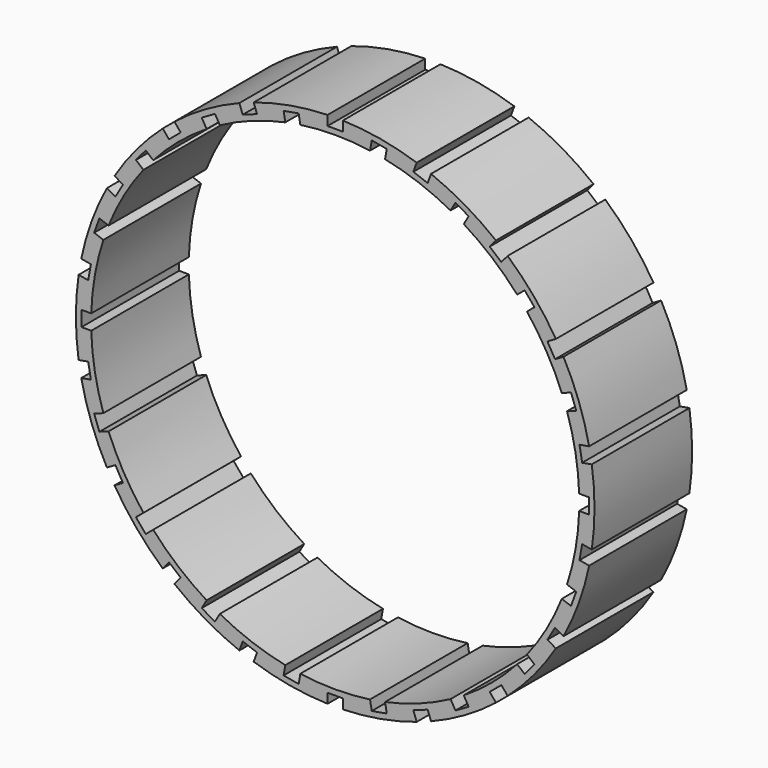
from build123d import *

# Parameters (mm, degrees)
F1_DEPTH = 25.4


with BuildPart() as f1:
    # F0 (on Front) → F1 (new body)
    with BuildSketch(Plane.XZ):
        with BuildLine():
            Line((-1.5875, 51.919649), (-1.5875, 53.951649))
            ThreePointArc((-1.5875, 53.951649), (-9.37266, 53.154998), (-16.960789, 51.240924))
            Line((-16.960789, 51.240924), (-16.265804, 49.331468))
            Line((-16.265804, 49.331468), (-19.249328, 48.245554))
            Line((-19.249328, 48.245554), (-19.944313, 50.15501))
            ThreePointArc((-19.944313, 50.15501), (-26.9875, 46.743721), (-33.463356, 42.349787))
            Line((-33.463356, 42.349787), (-32.157212, 40.793184))
            Line((-32.157212, 40.793184), (-34.589403, 38.752334))
            Line((-34.589403, 38.752334), (-35.895547, 40.308936))
            ThreePointArc((-35.895547, 40.308936), (-41.347249, 34.694461), (-45.929749, 28.35064))
            Line((-45.929749, 28.35064), (-44.169985, 27.33464))
            Line((-44.169985, 27.33464), (-45.757485, 24.585009))
            Line((-45.757485, 24.585009), (-47.517249, 25.601009))
            ThreePointArc((-47.517249, 25.601009), (-50.719909, 18.460537), (-52.856336, 10.931988))
            Line((-52.856336, 10.931988), (-50.855207, 10.579135))
            Line((-50.855207, 10.579135), (-51.40654, 7.45237))
            Line((-51.40654, 7.45237), (-53.407669, 7.805223))
            ThreePointArc((-53.407669, 7.805223), (-53.975, 0), (-53.407669, -7.805223))
            Line((-53.407669, -7.805223), (-51.40654, -7.45237))
            Line((-51.40654, -7.45237), (-50.855207, -10.579135))
            Line((-50.855207, -10.579135), (-52.856336, -10.931988))
            ThreePointArc((-52.856336, -10.931988), (-50.719909, -18.460537), (-47.517249, -25.601009))
            Line((-47.517249, -25.601009), (-45.757485, -24.585009))
            Line((-45.757485, -24.585009), (-44.169985, -27.33464))
            Line((-44.169985, -27.33464), (-45.929749, -28.35064))
            ThreePointArc((-45.929749, -28.35064), (-41.347249, -34.694461), (-35.895547, -40.308936))
            Line((-35.895547, -40.308936), (-34.589403, -38.752334))
            Line((-34.589403, -38.752334), (-32.157212, -40.793184))
            Line((-32.157212, -40.793184), (-33.463356, -42.349787))
            ThreePointArc((-33.463356, -42.349787), (-26.9875, -46.743721), (-19.944313, -50.15501))
            Line((-19.944313, -50.15501), (-19.249328, -48.245554))
            Line((-19.249328, -48.245554), (-16.265804, -49.331468))
            Line((-16.265804, -49.331468), (-16.960789, -51.240924))
            ThreePointArc((-16.960789, -51.240924), (-9.37266, -53.154998), (-1.5875, -53.951649))
            Line((-1.5875, -53.951649), (-1.5875, -51.919649))
            Line((-1.5875, -51.919649), (1.5875, -51.919649))
            Line((1.5875, -51.919649), (1.5875, -53.951649))
            ThreePointArc((1.5875, -53.951649), (9.37266, -53.154998), (16.960789, -51.240924))
            Line((16.960789, -51.240924), (16.265804, -49.331468))
            Line((16.265804, -49.331468), (19.249328, -48.245554))
            Line((19.249328, -48.245554), (19.944313, -50.15501))
            ThreePointArc((19.944313, -50.15501), (26.9875, -46.743721), (33.463356, -42.349787))
            Line((33.463356, -42.349787), (32.157212, -40.793184))
            Line((32.157212, -40.793184), (34.589403, -38.752334))
            Line((34.589403, -38.752334), (35.895547, -40.308936))
            ThreePointArc((35.895547, -40.308936), (41.347249, -34.694461), (45.929749, -28.35064))
            Line((45.929749, -28.35064), (44.169985, -27.33464))
            Line((44.169985, -27.33464), (45.757485, -24.585009))
            Line((45.757485, -24.585009), (47.517249, -25.601009))
            ThreePointArc((47.517249, -25.601009), (50.719909, -18.460537), (52.856336, -10.931988))
            Line((52.856336, -10.931988), (50.855207, -10.579135))
            Line((50.855207, -10.579135), (51.40654, -7.45237))
            Line((51.40654, -7.45237), (53.407669, -7.805223))
            ThreePointArc((53.407669, -7.805223), (53.975, 0), (53.407669, 7.805223))
            Line((53.407669, 7.805223), (51.40654, 7.45237))
            Line((51.40654, 7.45237), (50.855207, 10.579135))
            Line((50.855207, 10.579135), (52.856336, 10.931988))
            ThreePointArc((52.856336, 10.931988), (50.719909, 18.460537), (47.517249, 25.601009))
            Line((47.517249, 25.601009), (45.757485, 24.585009))
            Line((45.757485, 24.585009), (44.169985, 27.33464))
            Line((44.169985, 27.33464), (45.929749, 28.35064))
            ThreePointArc((45.929749, 28.35064), (41.347249, 34.694461), (35.895547, 40.308936))
            Line((35.895547, 40.308936), (34.589403, 38.752334))
            Line((34.589403, 38.752334), (32.157212, 40.793184))
            Line((32.157212, 40.793184), (33.463356, 42.349787))
            ThreePointArc((33.463356, 42.349787), (26.9875, 46.743721), (19.944313, 50.15501))
            Line((19.944313, 50.15501), (19.249328, 48.245554))
            Line((19.249328, 48.245554), (16.265804, 49.331468))
            Line((16.265804, 49.331468), (16.960789, 51.240924))
            ThreePointArc((16.960789, 51.240924), (9.37266, 53.154998), (1.5875, 53.951649))
            Line((1.5875, 53.951649), (1.5875, 51.919649))
            Line((1.5875, 51.919649), (-1.5875, 51.919649))
        make_face()
        with BuildLine():
            ThreePointArc((-48.256028, -15.874375), (-50.028234, -8.821327), (-50.775189, -1.5875))
            Line((-50.775189, -1.5875), (-52.807189, -1.5875))
            Line((-52.807189, -1.5875), (-52.807189, 1.5875))
            Line((-52.807189, 1.5875), (-50.775189, 1.5875))
            ThreePointArc((-50.775189, 1.5875), (-50.028234, 8.821327), (-48.256028, 15.874375))
            Line((-48.256028, 15.874375), (-50.165483, 16.56936))
            Line((-50.165483, 16.56936), (-49.079569, 19.552884))
            Line((-49.079569, 19.552884), (-47.170114, 18.8579))
            ThreePointArc((-47.170114, 18.8579), (-43.994091, 25.4), (-39.916477, 31.421567))
            Line((-39.916477, 31.421567), (-41.473079, 32.727711))
            Line((-41.473079, 32.727711), (-39.432229, 35.159903))
            Line((-39.432229, 35.159903), (-37.875626, 33.853758))
            ThreePointArc((-37.875626, 33.853758), (-32.653611, 38.915058), (-26.76241, 43.178854))
            Line((-26.76241, 43.178854), (-27.77841, 44.938617))
            Line((-27.77841, 44.938617), (-25.028779, 46.526117))
            Line((-25.028779, 46.526117), (-24.012779, 44.766354))
            ThreePointArc((-24.012779, 44.766354), (-17.374623, 47.736385), (-10.380401, 49.728134))
            Line((-10.380401, 49.728134), (-10.733254, 51.729263))
            Line((-10.733254, 51.729263), (-7.60649, 52.280596))
            Line((-7.60649, 52.280596), (-7.253637, 50.279467))
            ThreePointArc((-7.253637, 50.279467), (0, 50.8), (7.253637, 50.279467))
            Line((7.253637, 50.279467), (7.60649, 52.280596))
            Line((7.60649, 52.280596), (10.733254, 51.729263))
            Line((10.733254, 51.729263), (10.380401, 49.728134))
            ThreePointArc((10.380401, 49.728134), (17.374623, 47.736385), (24.012779, 44.766354))
            Line((24.012779, 44.766354), (25.028779, 46.526117))
            Line((25.028779, 46.526117), (27.77841, 44.938617))
            Line((27.77841, 44.938617), (26.76241, 43.178854))
            ThreePointArc((26.76241, 43.178854), (32.653611, 38.915058), (37.875626, 33.853758))
            Line((37.875626, 33.853758), (39.432229, 35.159903))
            Line((39.432229, 35.159903), (41.473079, 32.727711))
            Line((41.473079, 32.727711), (39.916477, 31.421567))
            ThreePointArc((39.916477, 31.421567), (43.994091, 25.4), (47.170114, 18.8579))
            Line((47.170114, 18.8579), (49.079569, 19.552884))
            Line((49.079569, 19.552884), (50.165483, 16.56936))
            Line((50.165483, 16.56936), (48.256028, 15.874375))
            ThreePointArc((48.256028, 15.874375), (50.028234, 8.821327), (50.775189, 1.5875))
            Line((50.775189, 1.5875), (52.807189, 1.5875))
            Line((52.807189, 1.5875), (52.807189, -1.5875))
            Line((52.807189, -1.5875), (50.775189, -1.5875))
            ThreePointArc((50.775189, -1.5875), (50.028234, -8.821327), (48.256028, -15.874375))
            Line((48.256028, -15.874375), (50.165483, -16.56936))
            Line((50.165483, -16.56936), (49.079569, -19.552884))
            Line((49.079569, -19.552884), (47.170114, -18.8579))
            ThreePointArc((47.170114, -18.8579), (43.994091, -25.4), (39.916477, -31.421567))
            Line((39.916477, -31.421567), (41.473079, -32.727711))
            Line((41.473079, -32.727711), (39.432229, -35.159903))
            Line((39.432229, -35.159903), (37.875626, -33.853758))
            ThreePointArc((37.875626, -33.853758), (32.653611, -38.915058), (26.76241, -43.178854))
            Line((26.76241, -43.178854), (27.77841, -44.938617))
            Line((27.77841, -44.938617), (25.028779, -46.526117))
            Line((25.028779, -46.526117), (24.012779, -44.766354))
            ThreePointArc((24.012779, -44.766354), (17.374623, -47.736385), (10.380401, -49.728134))
            Line((10.380401, -49.728134), (10.733254, -51.729263))
            Line((10.733254, -51.729263), (7.60649, -52.280596))
            Line((7.60649, -52.280596), (7.253637, -50.279467))
            ThreePointArc((7.253637, -50.279467), (0, -50.8), (-7.253637, -50.279467))
            Line((-7.253637, -50.279467), (-7.60649, -52.280596))
            Line((-7.60649, -52.280596), (-10.733254, -51.729263))
            Line((-10.733254, -51.729263), (-10.380401, -49.728134))
            ThreePointArc((-10.380401, -49.728134), (-17.374623, -47.736385), (-24.012779, -44.766354))
            Line((-24.012779, -44.766354), (-25.028779, -46.526117))
            Line((-25.028779, -46.526117), (-27.77841, -44.938617))
            Line((-27.77841, -44.938617), (-26.76241, -43.178854))
            ThreePointArc((-26.76241, -43.178854), (-32.653611, -38.915058), (-37.875626, -33.853758))
            Line((-37.875626, -33.853758), (-39.432229, -35.159903))
            Line((-39.432229, -35.159903), (-41.473079, -32.727711))
            Line((-41.473079, -32.727711), (-39.916477, -31.421567))
            ThreePointArc((-39.916477, -31.421567), (-43.994091, -25.4), (-47.170114, -18.8579))
            Line((-47.170114, -18.8579), (-49.079569, -19.552884))
            Line((-49.079569, -19.552884), (-50.165483, -16.56936))
            Line((-50.165483, -16.56936), (-48.256028, -15.874375))
        make_face(mode=Mode.SUBTRACT)
    extrude(amount=F1_DEPTH)


solid = f1.part
